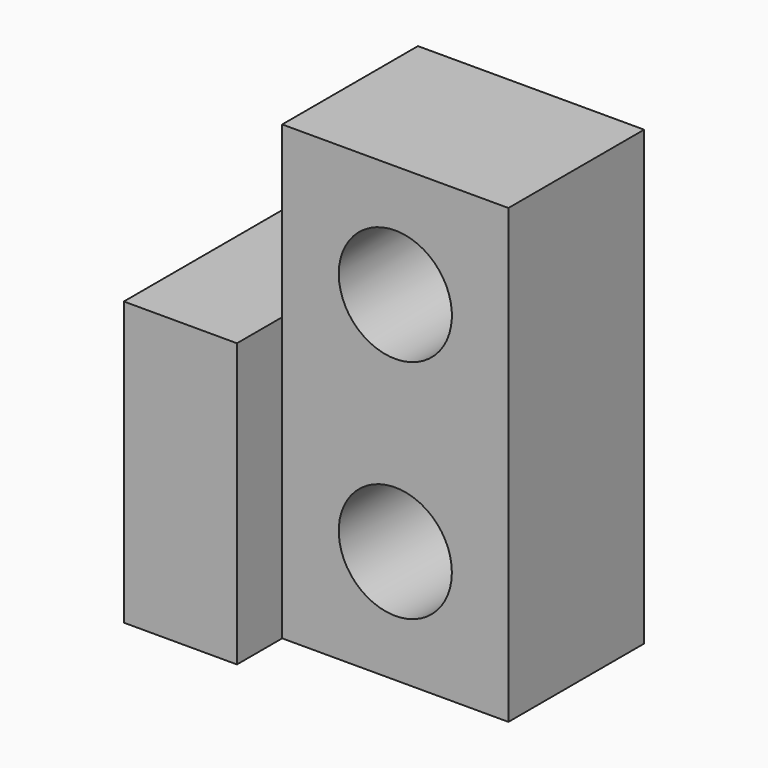
from build123d import *

# Parameters (mm, degrees)
F0_R     = 5
F1_DEPTH = 15
F0_W     = 10
F0_H     = 25
F2_DEPTH = 20
F3_R     = 5
F4_DEPTH = 25
F5_D     = 10


with BuildPart() as f1:
    # F0 (on Front) → F1 (new body)
    with BuildSketch(Plane.XZ):
        Polygon((10, 20), (-10, 20), (-10, 5), (-10, -20), (10, -20), align=None)
        with Locations((0, -10)):
            Circle(F0_R, mode=Mode.SUBTRACT)
    extrude(amount=F1_DEPTH)

    # F0 (on Front) → F2 (join)
    with BuildSketch(Plane.XZ):
        with Locations((-15, -7.5)):
            Rectangle(F0_W, F0_H)
    extrude(amount=F2_DEPTH)

    # F3 (on Front) → F4 (cut)
    with BuildSketch(Plane.XZ):
        with Locations((0, 10)):
            Circle(F3_R)
    extrude(amount=-F4_DEPTH, mode=Mode.SUBTRACT)

    # F5 (through all)
    with Locations(Plane(origin=(0, 0, 0), x_dir=(1, 0, 0), z_dir=(0, 1, 0))):
        with Locations((0, -10)):
            Hole(F5_D / 2)


solid = f1.part
